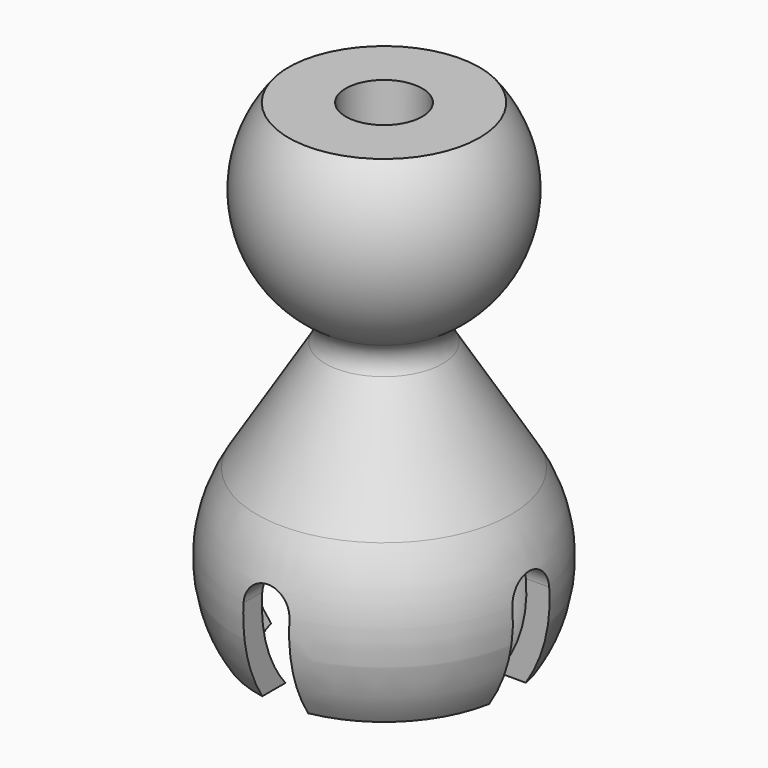
from build123d import *

# Parameters (mm, degrees)
F2_R     = 2.5
F3_DEPTH = 31.392483
F5_DEPTH = 12.5
F7_DEPTH = 12.5


with BuildPart() as f1:
    # F0 (on Front) → F1 (revolve)
    with BuildSketch(Plane.XZ):
        with BuildLine():
            ThreePointArc((3.844224, -8.787564), (3.659325, -7.666848), (4.312913, -6.737862))
            ThreePointArc((4.312913, -6.737862), (7.893777, -1.299338), (6.244998, 5))
            Line((6.244998, 5), (0, 5))
            Line((0, 5), (0, -8))
            Line((0, -8), (0, -12.891483))
            ThreePointArc((0, -12.891483), (7.462406, -17.623671), (6.363961, -26.391483))
            Line((6.363961, -26.391483), (8.215838, -26.391483))
            ThreePointArc((8.215838, -26.391483), (9.749656, -21.223349), (8.302841, -16.030187))
            Line((8.302841, -16.030187), (3.844224, -8.787564))
        make_face()
    revolve(axis=Axis((0, 0, -19.641483), (0, 0, -1)))

    # F2 (on face) → F3 (cut, through all)
    with BuildSketch(Plane.XY.offset(5)):
        Circle(F2_R)
    extrude(amount=-F3_DEPTH, mode=Mode.SUBTRACT)

    # F4 (on Front) → F5 (cut, symmetric)
    with BuildSketch(Plane.XZ):
        with BuildLine():
            Line((-1.5, -20.391483), (-1.5, -26.391483))
            Line((-1.5, -26.391483), (1.5, -26.391483))
            Line((1.5, -26.391483), (1.5, -20.391483))
            ThreePointArc((1.5, -20.391483), (0, -18.891483), (-1.5, -20.391483))
        make_face()
    extrude(amount=F5_DEPTH, both=True, mode=Mode.SUBTRACT)

    # F6 (on Right) → F7 (cut, symmetric)
    with BuildSketch(Plane.YZ):
        with BuildLine():
            Line((-1.5, -20.391483), (-1.5, -26.391483))
            Line((-1.5, -26.391483), (1.5, -26.391483))
            Line((1.5, -26.391483), (1.5, -20.391483))
            ThreePointArc((1.5, -20.391483), (0, -18.891483), (-1.5, -20.391483))
        make_face()
    extrude(amount=F7_DEPTH, both=True, mode=Mode.SUBTRACT)


solid = f1.part
